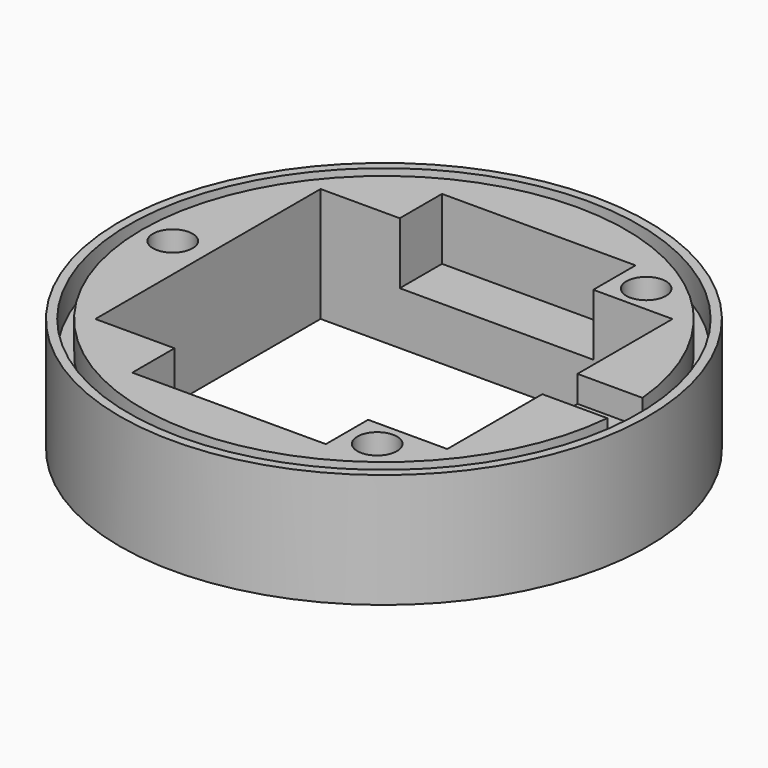
from build123d import *

# Parameters (mm, degrees)
SKETCH005_R             = 30
PAD002_DEPTH            = 13
SKETCH006_R             = 29
POCKET001_DEPTH         = 3.5
SKETCH007_R             = 27.5
PAD003_DEPTH            = 3.5
SKETCH010_W             = 44
SKETCH010_H             = 22
POCKET003_DEPTH         = 7
SKETCH018_W             = 32
SKETCH018_H             = 40
POCKET011_DEPTH         = 13
SKETCH020_W             = 5
SKETCH020_H             = 3
POCKET012_DEPTH         = 8
SKETCH023_R             = 2.25
POCKET015_DEPTH         = 20
BODY002_PLACEMENT_ANGLE = 90


with BuildPart() as part:
    # Sketch005 → Pad002 (new body)
    with BuildSketch(Plane.XY):
        Circle(SKETCH005_R)
    extrude(amount=PAD002_DEPTH)

    # Sketch006 (on Face3 of Pad002) → Pocket001 (cut)
    with BuildSketch(Plane.XY.offset(13)):
        Circle(SKETCH006_R)
    extrude(amount=-POCKET001_DEPTH, mode=Mode.SUBTRACT)

    # Sketch007 (on Face5 of Pocket001) → Pad003 (join)
    with BuildSketch(Plane.XY.offset(9.5)):
        Circle(SKETCH007_R)
    extrude(amount=PAD003_DEPTH)

    # Sketch010 (on Face7 of Pad003) → Pocket003 (cut)
    with BuildSketch(Plane.XY.offset(13)):
        Rectangle(SKETCH010_W, SKETCH010_H)
    extrude(amount=-POCKET003_DEPTH, mode=Mode.SUBTRACT)

    # Sketch018 (on Face7 of Pocket003) → Pocket011 (cut)
    with BuildSketch(Plane.XY.offset(13)):
        Rectangle(SKETCH018_W, SKETCH018_H)
    extrude(amount=-POCKET011_DEPTH, mode=Mode.SUBTRACT)

    # Sketch020 (on Face5 of Pocket011) → Pocket012 (cut)
    with BuildSketch(Plane(origin=(0, -20, 0), x_dir=(-1, 0, 0), z_dir=(0, 1, 0))):
        with Locations((0, 11.5)):
            Rectangle(SKETCH020_W, SKETCH020_H)
    extrude(amount=-POCKET012_DEPTH, mode=Mode.SUBTRACT)

    # Sketch023 (on Face9 of Pocket012) → Pocket015 (cut)
    with BuildSketch(Plane.XY.offset(13)):
        with Locations((-19.108778, -14.520833)):
            Circle(SKETCH023_R)
        with Locations((0, 24)):
            Circle(SKETCH023_R)
        with Locations((19.108778, -14.520833)):
            Circle(SKETCH023_R)
    extrude(amount=-POCKET015_DEPTH, mode=Mode.SUBTRACT)


with BuildPart() as part_1:
    # Body002 placement: moved
    add(part.part.moved(Location((0, 0, 5))).rotate(Axis((0, 0, 5), (0, 0, 1)), BODY002_PLACEMENT_ANGLE))


solid = part_1.part
